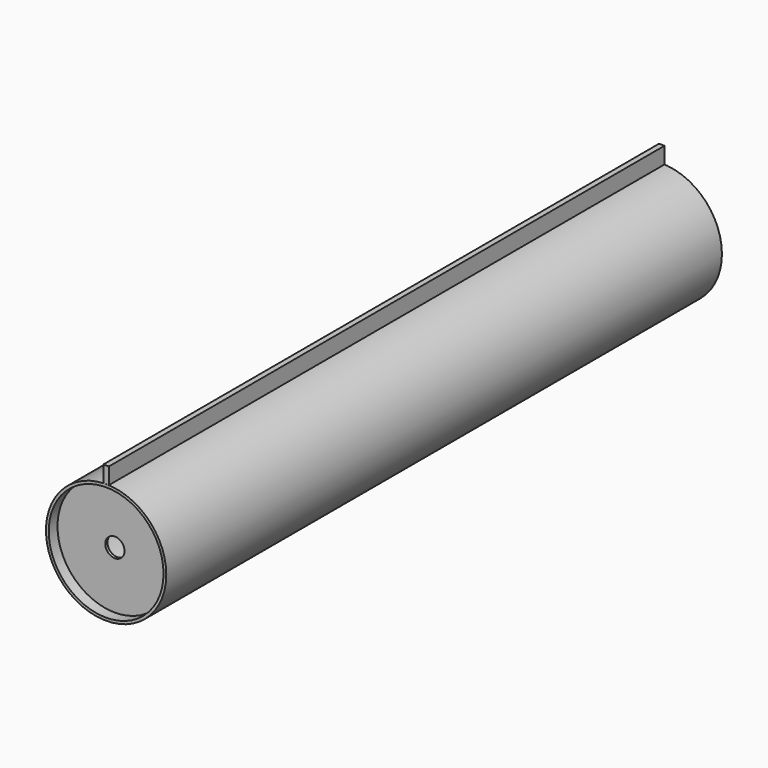
from build123d import *

# Parameters (mm, degrees)
F1_R          = 104.5499965549
F2_DEPTH      = 632.5
F3_START      = 607.5
F1_R_2        = 17.5
F3_DEPTH      = 5
F4_DEPTH      = 632.5
F4_DEPTH_BACK = 632.5


with BuildPart() as f2:
    # F1 (on Front) → F2 (new body, symmetric)
    with BuildSketch(Plane.XZ):
        with BuildLine():
            ThreePointArc((0, 109.55), (-77.463547879, -77.463547879), (109.55, 0))
            ThreePointArc((109.55, 0), (77.463547879, 77.463547879), (0, 109.55))
        make_face()
        Circle(F1_R, mode=Mode.SUBTRACT)
    extrude(amount=F2_DEPTH, both=True)


with BuildPart() as f3:
    # F1 (on Front) → F3 (new body)
    with BuildSketch(Plane.XZ.offset(F3_START)):
        Circle(F1_R)
        Circle(F1_R_2, mode=Mode.SUBTRACT)
    extrude(amount=F3_DEPTH)


with BuildPart() as f4:
    # F1 (on Front) → F4 (new body, two sides)
    with BuildSketch(Plane.XZ) as f4_sk:
        Polygon((-5, 109.55), (0, 109.55), (5, 109.55), (5, 139.55), (-5, 139.55), align=None)
    extrude(amount=F4_DEPTH)
    extrude(f4_sk.sketch, amount=-F4_DEPTH_BACK)


solid = Compound([f2.part, f3.part, f4.part])
